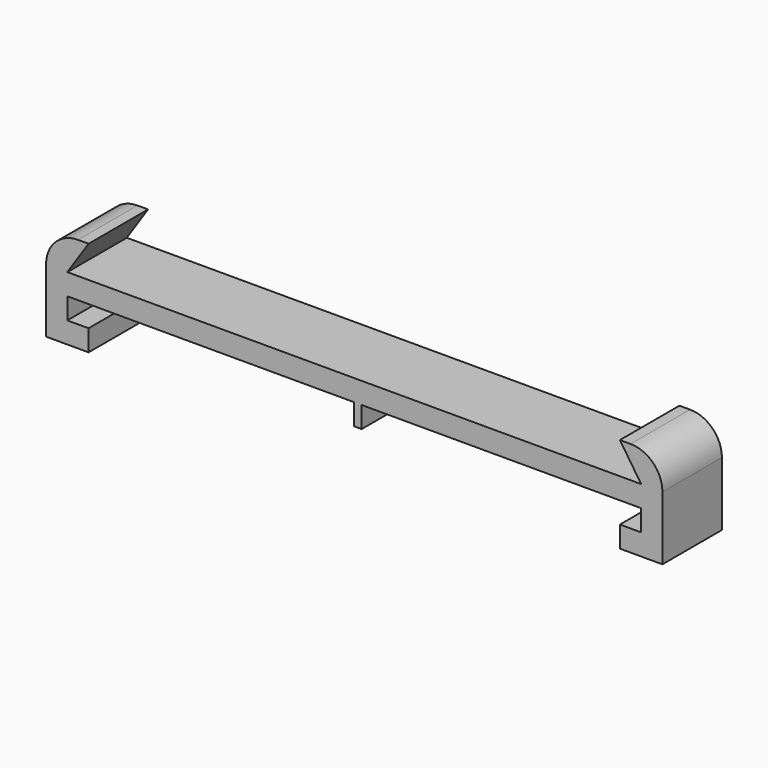
from build123d import *

# Parameters (mm, degrees)
F1_DEPTH = 7
F2_R     = 3
F3_W     = 0.695917
F3_H     = 7
F4_DEPTH = 2


with BuildPart() as f1:
    # F0 (on Front) → F1 (new body)
    with BuildSketch(Plane.XZ):
        Polygon((0, 9), (0, 6), (2, 6), (4, 9), align=None)
        Polygon((2, 6), (0, 6), (0, 0), (4, 0), (4, 2), (2, 2), (2, 4), (56, 4), (56, 2), (54, 2), (54, 0), (58, 0), (58, 6), (56, 6), align=None)
        Polygon((54, 9), (56, 6), (58, 6), (58, 9), align=None)
    extrude(amount=F1_DEPTH)

    # F2
    f2_edges = [f1.edges().sort_by_distance(p)[0] for p in [
        (0, -3.5, 9),
        (58, -3.5, 9),
    ]]
    fillet(f2_edges, radius=F2_R)

    # F3 (on face) → F4 (join)
    with BuildSketch(Plane(origin=(0, 0, 4), x_dir=(1, 0, 0), z_dir=(0, 0, -1))):
        with Locations((29.347958, 3.5)):
            Rectangle(F3_W, F3_H)
    extrude(amount=F4_DEPTH)


solid = f1.part
